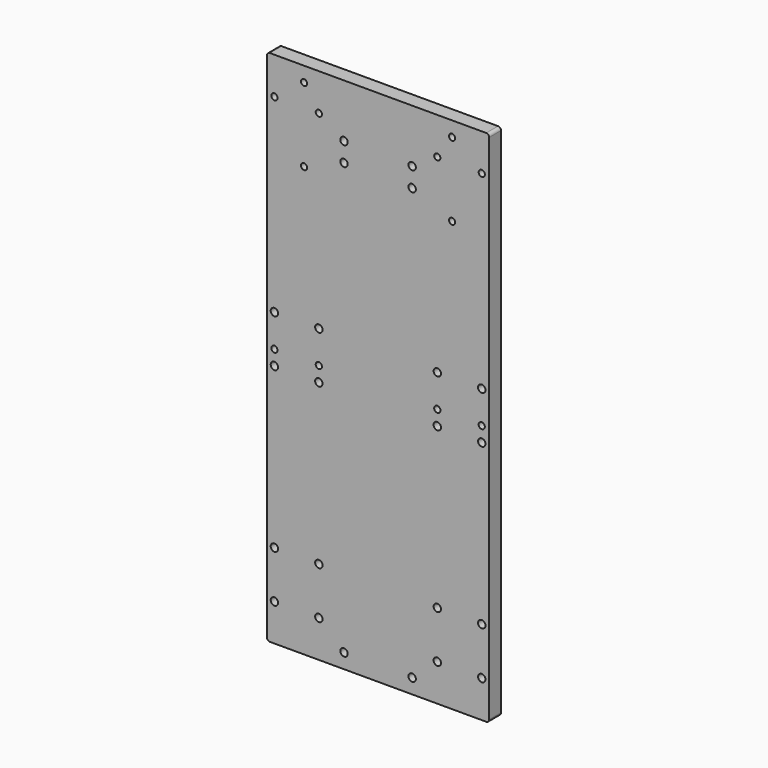
from build123d import *

# Parameters (mm, degrees)
F0_R     = 2.5
F0_R_2   = 2.1
F1_DEPTH = 10


with BuildPart() as f1:
    # F0 (on Front) → F1 (new body)
    with BuildSketch(Plane.XZ):
        with BuildLine():
            Line((73, 175), (-73, 175))
            ThreePointArc((-73, 175), (-74.414214, 174.414214), (-75, 173))
            Line((-75, 173), (-75, -173))
            ThreePointArc((-75, -173), (-74.414214, -174.414214), (-73, -175))
            Line((-73, -175), (73, -175))
            ThreePointArc((73, -175), (74.414214, -174.414214), (75, -173))
            Line((75, -173), (75, 173))
            ThreePointArc((75, 173), (74.414214, 174.414214), (73, 175))
        make_face()
        with Locations((-70, -150)):
            Circle(F0_R, mode=Mode.SUBTRACT)
        with Locations((-40, -150)):
            Circle(F0_R, mode=Mode.SUBTRACT)
        with Locations((-70, -118)):
            Circle(F0_R, mode=Mode.SUBTRACT)
        with Locations((-40, -118)):
            Circle(F0_R, mode=Mode.SUBTRACT)
        with Locations((-23, -165)):
            Circle(F0_R, mode=Mode.SUBTRACT)
        with Locations((-70, -10)):
            Circle(F0_R, mode=Mode.SUBTRACT)
        with Locations((-40, -10)):
            Circle(F0_R, mode=Mode.SUBTRACT)
        with Locations((23, -165)):
            Circle(F0_R, mode=Mode.SUBTRACT)
        with Locations((40, -150)):
            Circle(F0_R, mode=Mode.SUBTRACT)
        with Locations((70, -150)):
            Circle(F0_R, mode=Mode.SUBTRACT)
        with Locations((40, -118)):
            Circle(F0_R, mode=Mode.SUBTRACT)
        with Locations((70, -118)):
            Circle(F0_R, mode=Mode.SUBTRACT)
        with Locations((40, -10)):
            Circle(F0_R, mode=Mode.SUBTRACT)
        with Locations((70, -10)):
            Circle(F0_R, mode=Mode.SUBTRACT)
        with Locations((-70, 0)):
            Circle(F0_R_2, mode=Mode.SUBTRACT)
        with Locations((-70, 22)):
            Circle(F0_R, mode=Mode.SUBTRACT)
        with Locations((-40, 0)):
            Circle(F0_R_2, mode=Mode.SUBTRACT)
        with Locations((-40, 22)):
            Circle(F0_R, mode=Mode.SUBTRACT)
        with Locations((-50, 115)):
            Circle(F0_R_2, mode=Mode.SUBTRACT)
        with Locations((-70, 150)):
            Circle(F0_R_2, mode=Mode.SUBTRACT)
        with Locations((-40, 150)):
            Circle(F0_R_2, mode=Mode.SUBTRACT)
        with Locations((-50, 165)):
            Circle(F0_R_2, mode=Mode.SUBTRACT)
        with Locations((-23, 126)):
            Circle(F0_R, mode=Mode.SUBTRACT)
        with Locations((-23, 139)):
            Circle(F0_R, mode=Mode.SUBTRACT)
        with Locations((40, 0)):
            Circle(F0_R_2, mode=Mode.SUBTRACT)
        with Locations((40, 22)):
            Circle(F0_R, mode=Mode.SUBTRACT)
        with Locations((70, 0)):
            Circle(F0_R_2, mode=Mode.SUBTRACT)
        with Locations((70, 22)):
            Circle(F0_R, mode=Mode.SUBTRACT)
        with Locations((23, 126)):
            Circle(F0_R, mode=Mode.SUBTRACT)
        with Locations((23, 139)):
            Circle(F0_R, mode=Mode.SUBTRACT)
        with Locations((50, 115)):
            Circle(F0_R_2, mode=Mode.SUBTRACT)
        with Locations((40, 150)):
            Circle(F0_R_2, mode=Mode.SUBTRACT)
        with Locations((50, 165)):
            Circle(F0_R_2, mode=Mode.SUBTRACT)
        with Locations((70, 150)):
            Circle(F0_R_2, mode=Mode.SUBTRACT)
    extrude(amount=F1_DEPTH)


solid = f1.part
